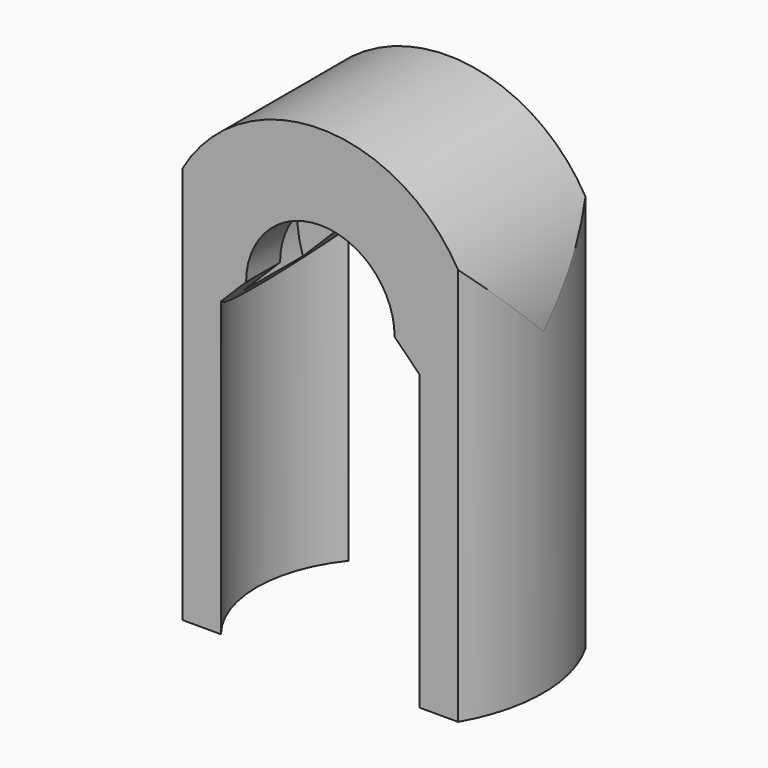
from build123d import *

# Parameters (mm, degrees)
CYLINDER002_R          = 7
CYLINDER002_DEPTH      = 15
CYLINDER002_ROLL_ANGLE = -90
PAD_DEPTH              = 15
CYLINDER003_R          = 12
CYLINDER003_DEPTH      = 30
CYLINDER_R             = 11
CYLINDER_DEPTH         = 7
BOX_W                  = 30
BOX_H                  = 15
BOX_DEPTH              = 30
CYLINDER001_R          = 15
CYLINDER001_DEPTH      = 15
CYLINDER001_ROLL_ANGLE = -90
CYLINDER004_R          = 15
CYLINDER004_DEPTH      = 45


with BuildPart() as cylinder001:
    # Cylinder002 → Cylinder002 (new body)
    with BuildSketch(Plane.XY):
        Circle(CYLINDER002_R)
    extrude(amount=CYLINDER002_DEPTH)


with BuildPart() as cylinder001_1:
    # Cylinder002 roll: moved
    add(cylinder001.part.rotate(Axis((0, 0, 0), (1, 0, 0)), CYLINDER002_ROLL_ANGLE))


with BuildPart() as cylinder001_2:
    # Cylinder002 placement: moved
    add(cylinder001_1.part.moved(Location((0, -7.5, 0))))


with BuildPart() as body:
    # Sketch → Pad (new body)
    with BuildSketch(Plane.XZ):
        Polygon((-7, 0), (7, 0), (15, -8), (15, -30), (-15, -30), (-15, -8), align=None)
    extrude(amount=-PAD_DEPTH)


with BuildPart() as body_1:
    # Body placement: moved
    add(body.part.moved(Location((0, -7.5, 0))))


with BuildPart() as common:
    # Cylinder003 → Cylinder003 (new body)
    with BuildSketch(Plane.XY.offset(-30)):
        Circle(CYLINDER003_R)
    extrude(amount=CYLINDER003_DEPTH)

    # Common: intersect Body
    add(body_1.part, mode=Mode.INTERSECT)


with BuildPart() as negative_fusion:
    # Cylinder → Cylinder (new body)
    with BuildSketch(Plane(origin=(0, -3.5, 0), x_dir=(0, 0, -1), z_dir=(0, 1, 0))):
        Circle(CYLINDER_R)
    extrude(amount=CYLINDER_DEPTH)

    # Fusion: union Cylinder001, Common
    add(cylinder001_2.part)
    add(common.part)


with BuildPart() as cube:
    # Box → Box (new body)
    with BuildSketch(Plane(origin=(-15, -7.5, -30), x_dir=(1, 0, 0), z_dir=(0, 0, 1))):
        with Locations((15, 7.5)):
            Rectangle(BOX_W, BOX_H)
    extrude(amount=BOX_DEPTH)


with BuildPart() as cut:
    # Cylinder001 → Cylinder001 (new body)
    with BuildSketch(Plane.XY):
        Circle(CYLINDER001_R)
    extrude(amount=CYLINDER001_DEPTH)


with BuildPart() as cut_1:
    # Cylinder001 roll: moved
    add(cut.part.rotate(Axis((0, 0, 0), (1, 0, 0)), CYLINDER001_ROLL_ANGLE))


with BuildPart() as cut_2:
    # Cylinder001 placement: moved
    add(cut_1.part.moved(Location((0, -7.5, 0))))

    # Fusion001: union Cube
    add(cube.part)

    # Cut: cut Negative Fusion
    add(negative_fusion.part, mode=Mode.SUBTRACT)


with BuildPart() as common001:
    # Cylinder004 → Cylinder004 (new body)
    with BuildSketch(Plane.XY.offset(-30)):
        Circle(CYLINDER004_R)
    extrude(amount=CYLINDER004_DEPTH)

    # Common001: intersect Cut
    add(cut_2.part, mode=Mode.INTERSECT)


solid = common001.part
